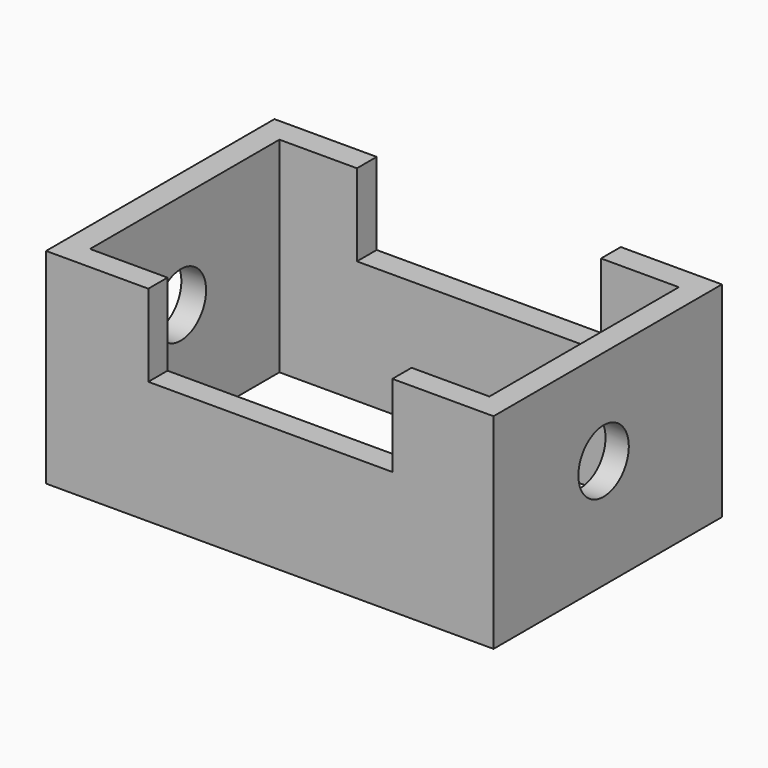
from build123d import *

# Parameters (mm, degrees)
F0_W     = 155.9993997216
F0_H     = 92.4738738686
F1_DEPTH = 80.01
F2_W     = 95.3351967037
F2_H     = 32.017163316
F3_DEPTH = 111.5057298372
F4_R     = 12.3144153275
F5_DEPTH = 174.76321174


with BuildPart() as f1:
    # F0 (on Top) → F1 (new body)
    with BuildSketch(Plane.XY):
        Polygon((-75.7883712649, 77.9326930642), (-85.4378119111, 77.9326930642), (-85.4378119111, 68.2832449675), (-85.4378119111, -24.1906289011), (-85.4378119111, -33.572036773), (80.2110284567, -33.572036773), (89.3243998289, -33.572036773), (89.3243998289, -24.1906289011), (89.3243998289, 68.2832449675), (89.3243998289, 77.9326930642), align=None)
        with Locations((2.2113285959, 22.0463080332)):
            Rectangle(F0_W, F0_H, mode=Mode.SUBTRACT)
    extrude(amount=F1_DEPTH)

    # F2 (on face) → F3 (cut, through all)
    with BuildSketch(Plane.XZ.offset(33.572036773)):
        with Locations((2.1493490785, 64.001418342)):
            Rectangle(F2_W, F2_H)
    extrude(amount=-F3_DEPTH, mode=Mode.SUBTRACT)

    # F4 (on face) → F5 (cut, through all)
    with BuildSketch(Plane.YZ.offset(89.3243998289)):
        with Locations((20.1669149101, 42.7727550268)):
            Circle(F4_R)
    extrude(amount=-F5_DEPTH, mode=Mode.SUBTRACT)


solid = f1.part
